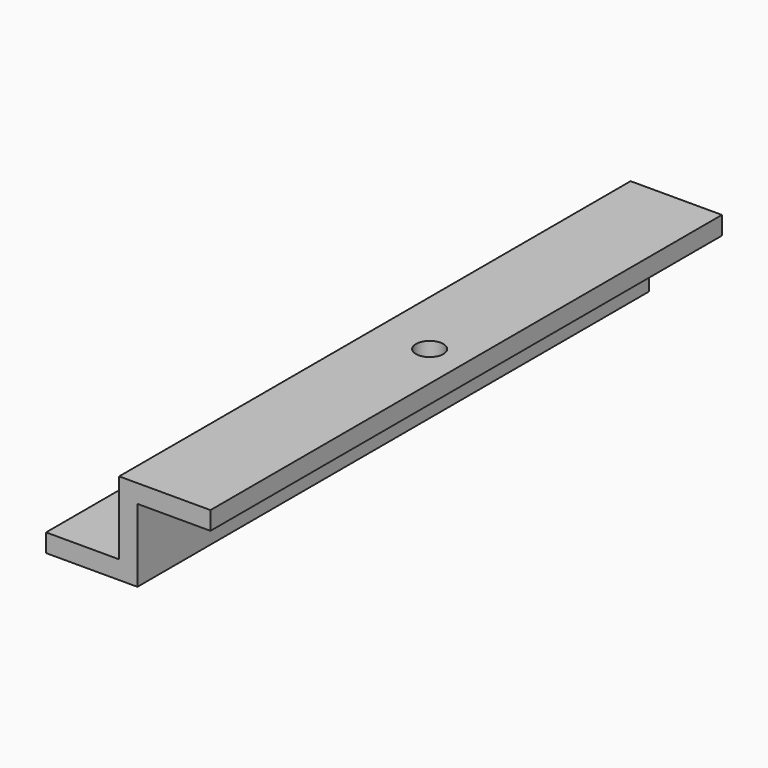
from build123d import *

# Parameters (mm, degrees)
CYLINDER020_R          = 1.5
CYLINDER020_DEPTH      = 4
CYLINDER022_R          = 3
CYLINDER022_DEPTH      = 4
CYLINDER021_R          = 1.5
CYLINDER021_DEPTH      = 4
BOX040_W               = 140
BOX040_H               = 20
BOX040_DEPTH           = 4
BOX041_W               = 140
BOX041_H               = 20
BOX041_DEPTH           = 4
BOX039_W               = 140
BOX039_H               = 4
BOX039_DEPTH           = 20
CUT031_PLACEMENT_ANGLE = 90


with BuildPart() as obj1:
    # Cylinder020 → Cylinder020 (new body)
    with BuildSketch(Plane(origin=(33, 12, 0), x_dir=(1, 0, 0), z_dir=(0, 0, 1))):
        Circle(CYLINDER020_R)
    extrude(amount=CYLINDER020_DEPTH)


with BuildPart() as cylinder022:
    # Cylinder022 → Cylinder022 (new body)
    with BuildSketch(Plane(origin=(70, -8, 16), x_dir=(1, 0, 0), z_dir=(0, 0, 1))):
        Circle(CYLINDER022_R)
    extrude(amount=CYLINDER022_DEPTH)


with BuildPart() as obj2:
    # Cylinder021 → Cylinder021 (new body)
    with BuildSketch(Plane(origin=(107, 12, 0), x_dir=(1, 0, 0), z_dir=(0, 0, 1))):
        Circle(CYLINDER021_R)
    extrude(amount=CYLINDER021_DEPTH)

    # Fusion022: union obj1, Cylinder022
    add(obj1.part)
    add(cylinder022.part)


with BuildPart() as obj3:
    # Box040 → Box040 (new body)
    with BuildSketch(Plane.XY):
        with Locations((70, 10)):
            Rectangle(BOX040_W, BOX040_H)
    extrude(amount=BOX040_DEPTH)


with BuildPart() as obj4:
    # Box041 → Box041 (new body)
    with BuildSketch(Plane(origin=(0, -16, 16), x_dir=(1, 0, 0), z_dir=(0, 0, 1))):
        with Locations((70, 10)):
            Rectangle(BOX041_W, BOX041_H)
    extrude(amount=BOX041_DEPTH)


with BuildPart() as obj5:
    # Box039 → Box039 (new body)
    with BuildSketch(Plane.XY):
        with Locations((70, 2)):
            Rectangle(BOX039_W, BOX039_H)
    extrude(amount=BOX039_DEPTH)

    # Fusion021: union obj3, obj4
    add(obj3.part)
    add(obj4.part)

    # Cut031: cut obj2
    add(obj2.part, mode=Mode.SUBTRACT)


with BuildPart() as obj5_1:
    # Cut031 placement: moved
    add(obj5.part.moved(Location((-74, -70, -74))).rotate(Axis((-74, -70, -74), (0, 0, 1)), CUT031_PLACEMENT_ANGLE))


solid = obj5_1.part
